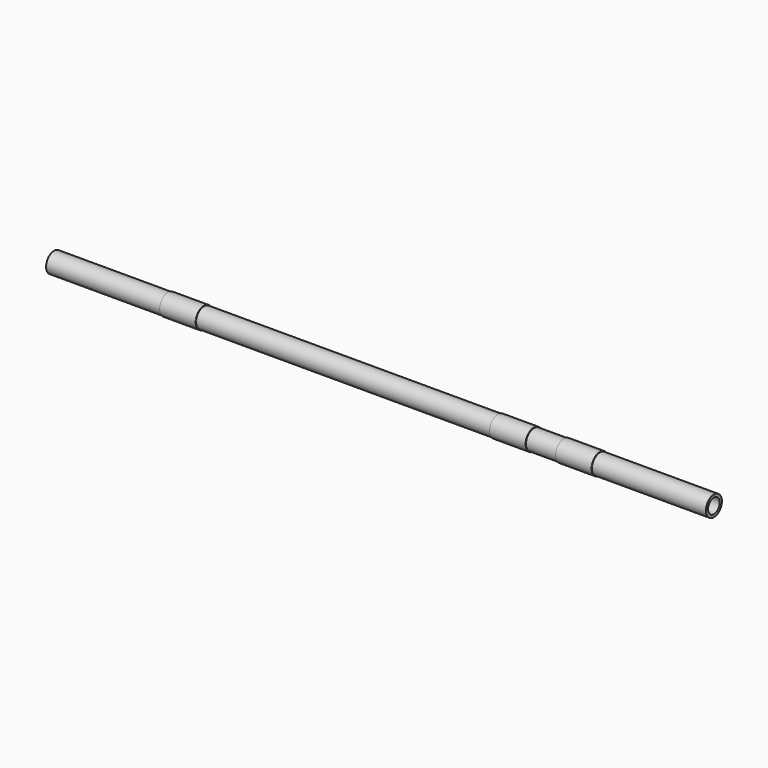
from build123d import *

# Parameters (mm, degrees)
F0_R     = 16.7
F0_R_2   = 12.2
F1_DEPTH = 550
F2_R     = 17.5
F2_R_2   = 16.7
F3_DEPTH = 30


with BuildPart() as f1:
    # F0 (on Right) → F1 (new body, symmetric)
    with BuildSketch(Plane.YZ):
        Circle(F0_R)
        Circle(F0_R_2, mode=Mode.SUBTRACT)
    extrude(amount=F1_DEPTH, both=True)


with BuildPart() as f3:
    # F2 (on Right) → F3 (new body, symmetric)
    with BuildSketch(Plane.YZ):
        Circle(F2_R)
        Circle(F2_R_2, mode=Mode.SUBTRACT)
    extrude(amount=F3_DEPTH, both=True)


with BuildPart() as f3_1:
    # F4: moved
    add(f3.part.moved(Location((330, 0, 0))))


with BuildPart() as f5_1:
    # F5: instance of F3
    add(f3_1.part.mirror(Plane.YZ))


with BuildPart() as f6_1:
    # F6: copy of F5_1
    add(f5_1.part.moved(Location((550, 0, 0))))


solid = Compound([f1.part, f3_1.part, f5_1.part, f6_1.part])
